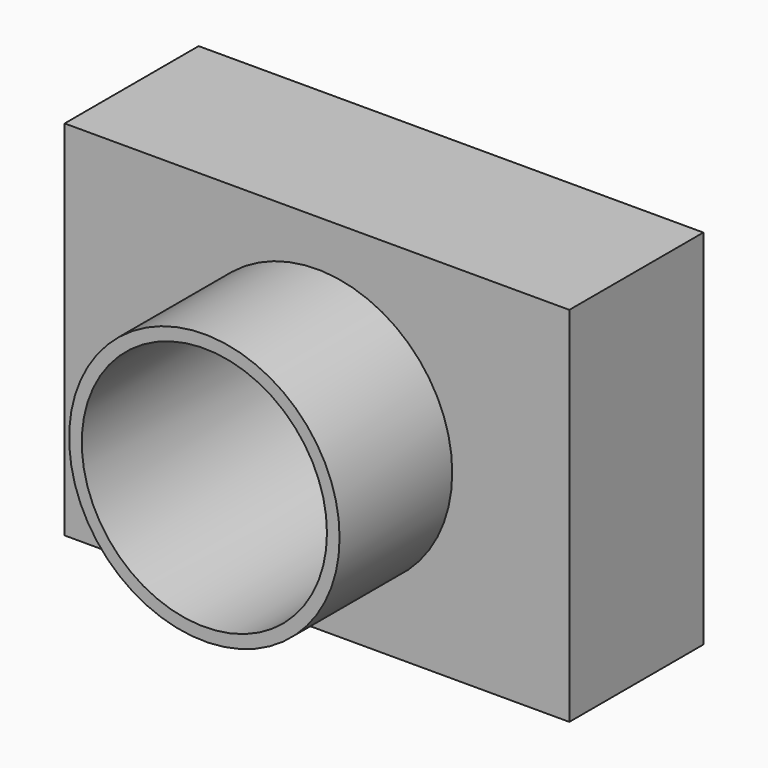
from build123d import *

# Parameters (mm, degrees)
F0_W     = 124.741532
F0_H     = 89.657984
F1_DEPTH = 41.402
F2_R     = 33.425555
F3_DEPTH = 34.798
F4_R     = 30.303801
F5_DEPTH = 96.266


with BuildPart() as f1:
    # F0 (on Front) → F1 (new body)
    with BuildSketch(Plane.XZ):
        Rectangle(F0_W, F0_H)
    extrude(amount=F1_DEPTH)

    # F2 (on face) → F3 (join)
    with BuildSketch(Plane.XZ.offset(41.402)):
        Circle(F2_R)
    extrude(amount=F3_DEPTH)

    # F4 (on face) → F5 (cut)
    with BuildSketch(Plane.XZ.offset(76.2)):
        Circle(F4_R)
    extrude(amount=-F5_DEPTH, mode=Mode.SUBTRACT)


solid = f1.part
